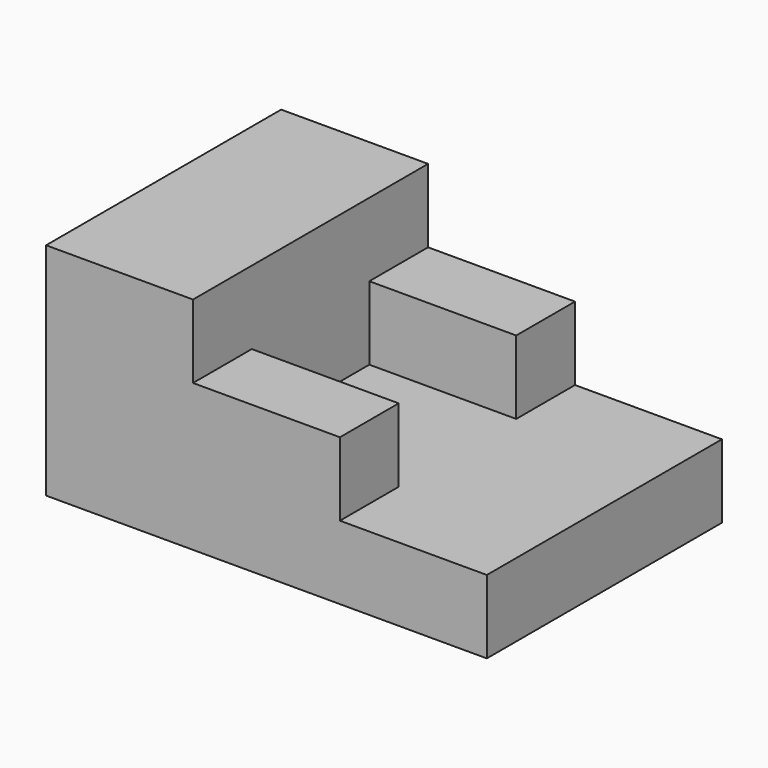
from build123d import *

# Parameters (mm, degrees)
SKETCH_W     = 60
SKETCH_H     = 40
PAD_DEPTH    = 5
SKETCH001_W  = 20
SKETCH001_H  = 40
PAD001_DEPTH = 20
SKETCH002_W  = 20
SKETCH002_H  = 10
PAD002_DEPTH = 10


with BuildPart() as part:
    # Sketch → Pad (new body, symmetric)
    with BuildSketch(Plane.XY):
        Rectangle(SKETCH_W, SKETCH_H)
    extrude(amount=PAD_DEPTH, both=True)

    # Sketch001 (on Face6 of Pad) → Pad001 (join)
    with BuildSketch(Plane.XY.offset(5)):
        with Locations((-20, 0)):
            Rectangle(SKETCH001_W, SKETCH001_H)
    extrude(amount=PAD001_DEPTH)

    # Sketch002 (on Face3 of Pad001) → Pad002 (join)
    with BuildSketch(Plane.XY.offset(5)):
        with Locations((0, 15)):
            Rectangle(SKETCH002_W, SKETCH002_H)
        with Locations((0, -15)):
            Rectangle(SKETCH002_W, SKETCH002_H)
    extrude(amount=PAD002_DEPTH)


solid = part.part
